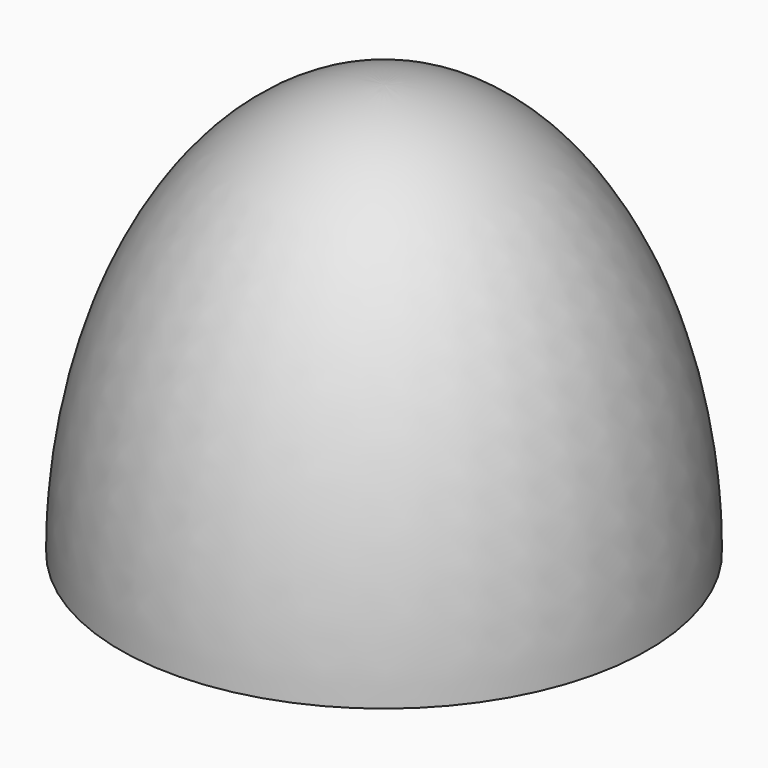
from build123d import *


with BuildPart() as f2:
    # F1 (on face) → F2 (revolve)
    with BuildSketch(Plane.XZ):
        with BuildLine():
            add(Edge.make_bspline(
                [(0, 25.7152635604), (-16.4751612775, 25.7152635604), (-16.4751612775, 0)],
                knots=[0, 0, 0, 1.5707963268, 1.5707963268, 1.5707963268], degree=2, weights=[1, 0.7071067812, 1]))
            Line((-16.4751612775, 0), (0, 0))
            Line((0, 0), (0, 25.7152635604))
        make_face()
    revolve(axis=Axis((0, 0, 12.8576317802), (0, 0, 1)))


solid = f2.part
